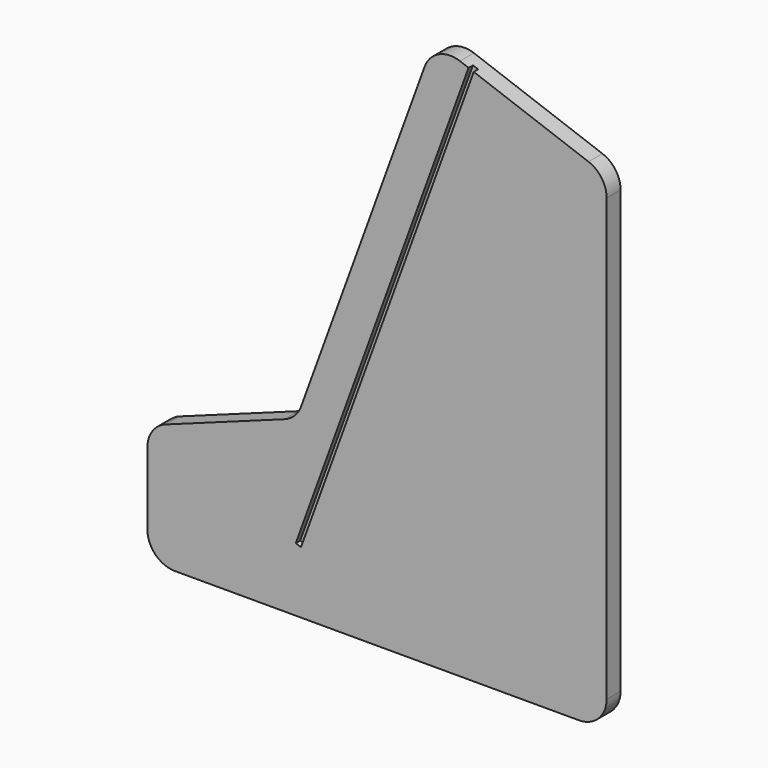
from build123d import *

# Parameters (mm, degrees)
PAD_DEPTH    = 19
FILLET_R     = 30
FILLET001_R  = 30
POCKET_DEPTH = 6


with BuildPart() as part:
    # Sketch001 → Pad (new body)
    with BuildSketch(Plane.XZ):
        Polygon((-15, -15), (-15, 115), (147.5259872373, 174.1546216491), (297.0614758428, 585), (485, 516.5959713349), (485, -15), align=None)
    extrude(amount=-PAD_DEPTH)

    # Fillet
    fillet_edges = [part.edges().sort_by_distance(p)[0] for p in [
        (-15, 9.5, 115),
        (-15, 9.5, -15),
        (297.061476, 9.5, 585),
        (485, 9.5, 516.595971),
        (485, 9.5, -15),
    ]]
    fillet(fillet_edges, radius=FILLET_R)

    # Fillet001
    fillet001_edges = [part.edges().sort_by_distance(p)[0] for p in [
        (147.525987, 9.5, 174.154622),
    ]]
    fillet(fillet001_edges, radius=FILLET001_R)

    # Sketch002 (on Face1 of Fillet001) → Pocket (cut)
    with BuildSketch(Plane.XZ):
        Polygon((340.287336399, 569.267073407), (152.1762575699, 52.4361319748), (146.5381018451, 54.4882528347), (334.6491806743, 571.319194267), align=None)
    extrude(amount=-POCKET_DEPTH, mode=Mode.SUBTRACT)


solid = part.part
